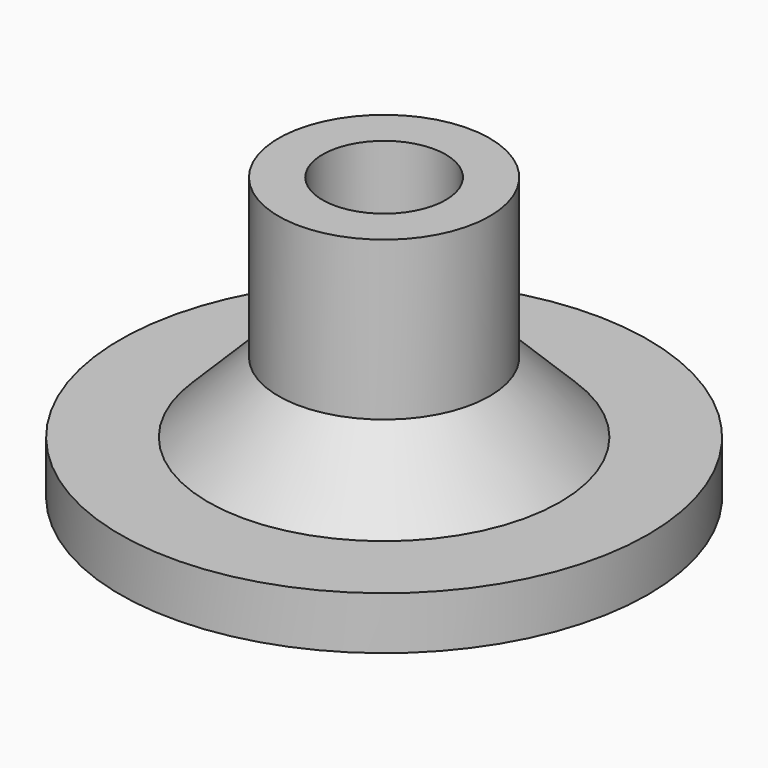
from build123d import *

# Parameters (mm, degrees)
F2_R     = 1.75
F3_DEPTH = 7.5
F4_SIZE  = 2


with BuildPart() as f1:
    # F0 (on Front) → F1 (revolve)
    with BuildSketch(Plane.XZ):
        Polygon((0, 8), (0, 0), (7.5, 0), (7.5, 1.5), (3, 1.5), (3, 8), align=None)
    revolve(axis=Axis((0, 0, 7.429687), (0, 0, 1)))

    # F2 (on face) → F3 (cut)
    with BuildSketch(Plane.XY.offset(8)):
        Circle(F2_R)
    extrude(amount=-F3_DEPTH, mode=Mode.SUBTRACT)

    # F4
    f4_edges = [f1.edges().sort_by_distance(p)[0] for p in [
        (-3, 0, 1.5),
    ]]
    chamfer(f4_edges, length=F4_SIZE)


solid = f1.part
